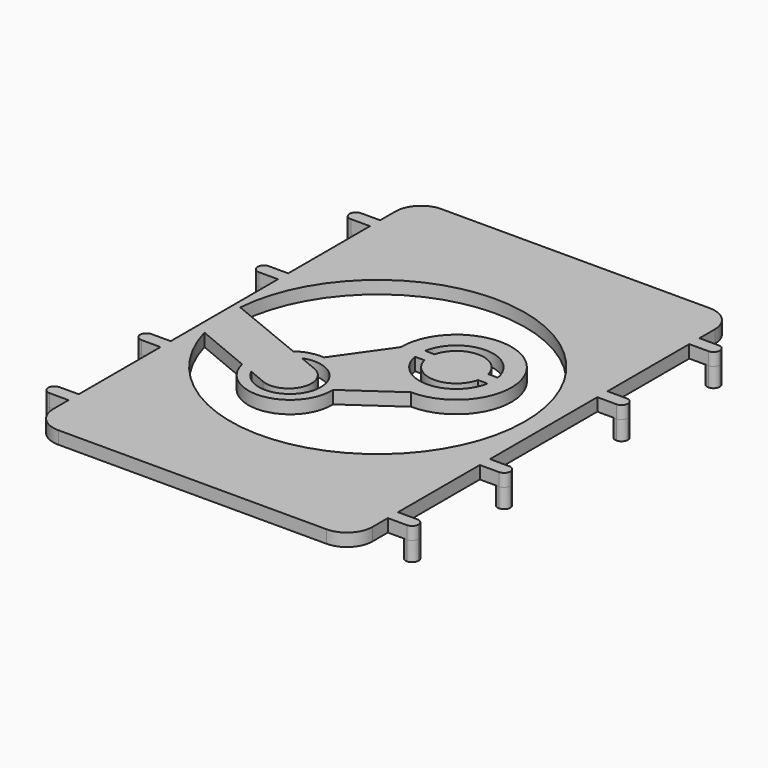
from build123d import *

# Parameters (mm, degrees)
F0_W          = 63.5
F0_H          = 95.25
F1_DEPTH      = 2.54
F2_R          = 5.08
F4_DEPTH      = 2.541
F6_DEPTH      = 2.54
F7_DEPTH      = 2.54
F7_DEPTH_BACK = 3.81


with BuildPart() as f1:
    # F0 (on Top) → F1 (new body)
    with BuildSketch(Plane.XY):
        with Locations((-31.75, 47.625)):
            Rectangle(F0_W, F0_H)
    extrude(amount=F1_DEPTH)

    # F2
    f2_edges = [f1.edges().sort_by_distance(p)[0] for p in [
        (-63.5, 0, 1.27),
        (0, 0, 1.27),
        (0, 95.25, 1.27),
        (-63.5, 95.25, 1.27),
    ]]
    fillet(f2_edges, radius=F2_R)

    # F3 (on face) → F4 (cut, through all)
    with BuildSketch(Plane.XY.offset(2.54)):
        with BuildLine():
            ThreePointArc((-28.7147323039, 56.4319934356), (-23.3894818135, 60.6365886522), (-18.0642313231, 56.4319934356))
            Line((-18.0642313231, 56.4319934356), (-16.1628100576, 56.4319934356))
            ThreePointArc((-16.1628100576, 56.4319934356), (-23.3894818135, 62.4994101926), (-30.6161535693, 56.4319934356))
            Line((-30.6161535693, 56.4319934356), (-28.7147323039, 56.4319934356))
        make_face()
        with BuildLine():
            Line((-16.1628100576, 53.8919934356), (-18.0642313231, 53.8919934356))
            ThreePointArc((-18.0642313231, 53.8919934356), (-23.3894818135, 49.687398219), (-28.7147323039, 53.8919934356))
            Line((-28.7147323039, 53.8919934356), (-30.6161535693, 53.8919934356))
            ThreePointArc((-30.6161535693, 53.8919934356), (-23.3894818135, 47.8245766785), (-16.1628100576, 53.8919934356))
        make_face()
        with BuildLine():
            ThreePointArc((-61.2091943622, 39.8156233132), (-3.7930509667, 50.3538420797), (-62.1665790677, 49.9079786241))
            Line((-62.1665790677, 49.9079786241), (-46.5377829969, 43.5084439814))
            ThreePointArc((-46.5377829969, 43.5084439814), (-44.1355102318, 44.6498304086), (-41.4878092706, 44.9015386403))
            Line((-41.4878092706, 44.9015386403), (-34.3481898308, 55.0450235605))
            ThreePointArc((-34.3481898308, 55.0450235605), (-15.6087357363, 62.8799564987), (-23.5952306539, 44.2045927048))
            Line((-23.5952306539, 44.2045927048), (-33.5741378367, 37.2411757708))
            ThreePointArc((-33.5741378367, 37.2411757708), (-40.8213137183, 28.6976707936), (-49.9820448458, 35.1470150054))
            Line((-49.9820448458, 35.1470150054), (-61.2091943622, 39.8156233132))
        make_face()
        with BuildLine():
            ThreePointArc((-47.366052866, 34.1452620924), (-36.0821241079, 34.4932892416), (-43.9929661581, 42.5472788847))
            Line((-43.9929661581, 42.5472788847), (-40.4547355891, 41.0624451561))
            ThreePointArc((-40.4547355891, 41.0624451561), (-37.8743531006, 35.1484300856), (-43.827822297, 32.6604283638))
            Line((-43.827822297, 32.6604283638), (-47.366052866, 34.1452620924))
        make_face()
    extrude(amount=-F4_DEPTH, mode=Mode.SUBTRACT)

    # F5 (on face) → F6 (join)
    with BuildSketch(Plane(origin=(0, 0, 0), x_dir=(1, 0, 0), z_dir=(0, 0, -1))):
        with BuildLine():
            Line((-63.5, -86.36), (-63.5, -83.82))
            Line((-63.5, -83.82), (-67.31, -83.82))
            ThreePointArc((-67.31, -83.82), (-66.4119743879, -84.1919743879), (-66.04, -85.09))
            ThreePointArc((-66.04, -85.09), (-66.4119743879, -85.9880256121), (-67.31, -86.36))
            Line((-67.31, -86.36), (-63.5, -86.36))
        make_face()
        with BuildLine():
            Line((-63.5, -63.5), (-63.5, -60.96))
            Line((-63.5, -60.96), (-67.31, -60.96))
            ThreePointArc((-67.31, -60.96), (-66.4119743879, -61.3319743879), (-66.04, -62.23))
            ThreePointArc((-66.04, -62.23), (-66.4119743879, -63.1280256121), (-67.31, -63.5))
            Line((-67.31, -63.5), (-63.5, -63.5))
        make_face()
        with BuildLine():
            Line((-63.5, -34.29), (-63.5, -31.75))
            Line((-63.5, -31.75), (-67.31, -31.75))
            ThreePointArc((-67.31, -31.75), (-66.4119743879, -32.1219743879), (-66.04, -33.02))
            ThreePointArc((-66.04, -33.02), (-66.4119743879, -33.9180256121), (-67.31, -34.29))
            Line((-67.31, -34.29), (-63.5, -34.29))
        make_face()
        with BuildLine():
            ThreePointArc((-67.31, -8.89), (-66.4119743879, -9.2619743879), (-66.04, -10.16))
            ThreePointArc((-66.04, -10.16), (-66.4119743879, -11.0580256121), (-67.31, -11.43))
            Line((-67.31, -11.43), (-63.5, -11.43))
            Line((-63.5, -11.43), (-63.5, -8.89))
            Line((-63.5, -8.89), (-67.31, -8.89))
        make_face()
        with BuildLine():
            Line((3.81, -8.89), (0, -8.89))
            Line((0, -8.89), (0, -11.43))
            Line((0, -11.43), (3.81, -11.43))
            ThreePointArc((3.81, -11.43), (2.54, -10.16), (3.81, -8.89))
        make_face()
        with BuildLine():
            Line((3.81, -31.75), (0, -31.75))
            Line((0, -31.75), (0, -34.29))
            Line((0, -34.29), (3.81, -34.29))
            ThreePointArc((3.81, -34.29), (2.54, -33.02), (3.81, -31.75))
        make_face()
        with BuildLine():
            Line((3.81, -60.96), (0, -60.96))
            Line((0, -60.96), (0, -63.5))
            Line((0, -63.5), (3.81, -63.5))
            ThreePointArc((3.81, -63.5), (2.54, -62.23), (3.81, -60.96))
        make_face()
        with BuildLine():
            Line((3.81, -83.82), (0, -83.82))
            Line((0, -83.82), (0, -86.36))
            Line((0, -86.36), (3.81, -86.36))
            ThreePointArc((3.81, -86.36), (2.54, -85.09), (3.81, -83.82))
        make_face()
    extrude(amount=-F6_DEPTH)

    # F5 (on face) → F7 (join, two sides)
    with BuildSketch(Plane(origin=(0, 0, 0), x_dir=(1, 0, 0), z_dir=(0, 0, -1))) as f7_sk:
        with BuildLine():
            ThreePointArc((-66.04, -85.09), (-66.4119743879, -84.1919743879), (-67.31, -83.82))
            ThreePointArc((-67.31, -83.82), (-68.58, -85.09), (-67.31, -86.36))
            ThreePointArc((-67.31, -86.36), (-66.4119743879, -85.9880256121), (-66.04, -85.09))
        make_face()
        with BuildLine():
            ThreePointArc((-66.04, -62.23), (-66.4119743879, -61.3319743879), (-67.31, -60.96))
            ThreePointArc((-67.31, -60.96), (-68.58, -62.23), (-67.31, -63.5))
            ThreePointArc((-67.31, -63.5), (-66.4119743879, -63.1280256121), (-66.04, -62.23))
        make_face()
        with BuildLine():
            ThreePointArc((-66.04, -33.02), (-66.4119743879, -32.1219743879), (-67.31, -31.75))
            ThreePointArc((-67.31, -31.75), (-68.58, -33.02), (-67.31, -34.29))
            ThreePointArc((-67.31, -34.29), (-66.4119743879, -33.9180256121), (-66.04, -33.02))
        make_face()
        with BuildLine():
            ThreePointArc((-67.31, -11.43), (-66.4119743879, -11.0580256121), (-66.04, -10.16))
            ThreePointArc((-66.04, -10.16), (-66.4119743879, -9.2619743879), (-67.31, -8.89))
            ThreePointArc((-67.31, -8.89), (-68.58, -10.16), (-67.31, -11.43))
        make_face()
        with BuildLine():
            ThreePointArc((5.08, -10.16), (4.7080256121, -9.2619743879), (3.81, -8.89))
            ThreePointArc((3.81, -8.89), (2.54, -10.16), (3.81, -11.43))
            ThreePointArc((3.81, -11.43), (4.7080256121, -11.0580256121), (5.08, -10.16))
        make_face()
        with BuildLine():
            ThreePointArc((5.08, -33.02), (4.7080256121, -32.1219743879), (3.81, -31.75))
            ThreePointArc((3.81, -31.75), (2.54, -33.02), (3.81, -34.29))
            ThreePointArc((3.81, -34.29), (4.7080256121, -33.9180256121), (5.08, -33.02))
        make_face()
        with BuildLine():
            ThreePointArc((5.08, -62.23), (4.7080256121, -61.3319743879), (3.81, -60.96))
            ThreePointArc((3.81, -60.96), (2.54, -62.23), (3.81, -63.5))
            ThreePointArc((3.81, -63.5), (4.7080256121, -63.1280256121), (5.08, -62.23))
        make_face()
        with BuildLine():
            ThreePointArc((5.08, -85.09), (4.7080256121, -84.1919743879), (3.81, -83.82))
            ThreePointArc((3.81, -83.82), (2.54, -85.09), (3.81, -86.36))
            ThreePointArc((3.81, -86.36), (4.7080256121, -85.9880256121), (5.08, -85.09))
        make_face()
    extrude(amount=-F7_DEPTH)
    extrude(f7_sk.sketch, amount=F7_DEPTH_BACK)


solid = f1.part
